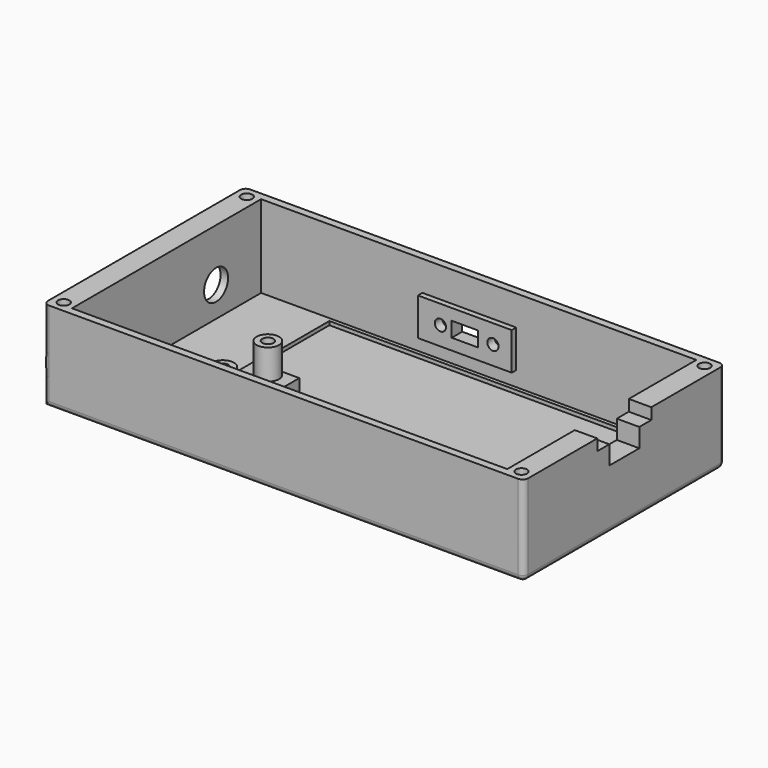
from build123d import *

# Parameters (mm, degrees)
BOX_W             = 128
BOX_H             = 67
BOX_DEPTH         = 24
BOX001_W          = 116
BOX001_H          = 63
BOX001_DEPTH      = 22
BOX002_W          = 4
BOX002_H          = 34
BOX002_DEPTH      = 10
BOX003_W          = 100
BOX003_H          = 30
BOX003_DEPTH      = 1
BOX004_W          = 12
BOX004_H          = 32
BOX004_DEPTH      = 4
CYLINDER_R        = 3
CYLINDER_DEPTH    = 8
CYLINDER001_R     = 3
CYLINDER001_DEPTH = 8
CYLINDER002_R     = 1.5
CYLINDER002_DEPTH = 5
CYLINDER003_R     = 1.5
CYLINDER003_DEPTH = 5
BOX005_W          = 42
BOX005_H          = 20
BOX005_DEPTH      = 4
CYLINDER004_R     = 4
CYLINDER004_DEPTH = 6
CYLINDER005_R     = 4
CYLINDER005_DEPTH = 6
CYLINDER006_R     = 10
CYLINDER006_DEPTH = 4
CYLINDER007_R     = 8
CYLINDER007_DEPTH = 4
BOX006_W          = 10
BOX006_H          = 25
BOX006_DEPTH      = 1.5
BOX007_W          = 4
BOX007_H          = 7
BOX007_DEPTH      = 6
CYLINDER008_R     = 1.5
CYLINDER008_DEPTH = 2.5
CYLINDER009_R     = 1.5
CYLINDER009_DEPTH = 2.5
CYLINDER010_R     = 1
CYLINDER010_DEPTH = 5
CYLINDER011_R     = 1
CYLINDER011_DEPTH = 5
BOX008_W          = 18
BOX008_H          = 3
BOX008_DEPTH      = 6
BOX009_W          = 10
BOX009_H          = 5
BOX009_DEPTH      = 6
CYLINDER012_R     = 1.5
CYLINDER012_DEPTH = 5
CYLINDER013_R     = 1.5
CYLINDER013_DEPTH = 5
CYLINDER014_R     = 1.5
CYLINDER014_DEPTH = 5
CYLINDER015_R     = 1.5
CYLINDER015_DEPTH = 5
FILLET_R          = 1.5
CYLINDER016_R     = 5
CYLINDER016_DEPTH = 0.2
CYLINDER017_R     = 7
CYLINDER017_DEPTH = 0.2
CYLINDER018_R     = 7
CYLINDER018_DEPTH = 0.2
BOX010_W          = 5
BOX010_H          = 6
BOX010_DEPTH      = 0.2
BOX011_W          = 9
BOX011_H          = 4
BOX011_DEPTH      = 0.2
CYLINDER019_R     = 7
CYLINDER019_DEPTH = 0.2
CYLINDER020_R     = 5
CYLINDER020_DEPTH = 0.2
PRISM_DEPTH       = 0.2
CYLINDER021_R     = 1.8
CYLINDER021_DEPTH = 0.2


with BuildPart() as part:
    # Box → Box (join)
    with BuildSketch(Plane.XY):
        with Locations((64, 33.5)):
            Rectangle(BOX_W, BOX_H)
    extrude(amount=BOX_DEPTH)

    # Box001 → Box001 (cut)
    with BuildSketch(Plane(origin=(6, 2, 2), x_dir=(1, 0, 0), z_dir=(0, 0, 1))):
        with Locations((58, 31.5)):
            Rectangle(BOX001_W, BOX001_H)
    extrude(amount=BOX001_DEPTH, mode=Mode.SUBTRACT)

    # Box002 → Box002 (cut)
    with BuildSketch(Plane(origin=(122, 31, 2), x_dir=(1, 0, 0), z_dir=(0, 0, 1))):
        with Locations((2, 17)):
            Rectangle(BOX002_W, BOX002_H)
    extrude(amount=BOX002_DEPTH, mode=Mode.SUBTRACT)

    # Box003 → Box003 (cut)
    with BuildSketch(Plane(origin=(25, 34, 1), x_dir=(1, 0, 0), z_dir=(0, 0, 1))):
        with Locations((50, 15)):
            Rectangle(BOX003_W, BOX003_H)
    extrude(amount=BOX003_DEPTH, mode=Mode.SUBTRACT)

    # Box004 → Box004 (join)
    with BuildSketch(Plane(origin=(29, 2, 2), x_dir=(1, 0, 0), z_dir=(0, 0, 1))):
        with Locations((6, 16)):
            Rectangle(BOX004_W, BOX004_H)
    extrude(amount=BOX004_DEPTH)

    # Cylinder → Cylinder (join)
    with BuildSketch(Plane(origin=(35, 16, 6), x_dir=(1, 0, 0), z_dir=(0, 0, 1))):
        Circle(CYLINDER_R)
    extrude(amount=CYLINDER_DEPTH)

    # Cylinder001 → Cylinder001 (join)
    with BuildSketch(Plane(origin=(35, 31, 6), x_dir=(1, 0, 0), z_dir=(0, 0, 1))):
        Circle(CYLINDER001_R)
    extrude(amount=CYLINDER001_DEPTH)

    # Cylinder002 → Cylinder002 (cut)
    with BuildSketch(Plane(origin=(35, 31, 9), x_dir=(1, 0, 0), z_dir=(0, 0, 1))):
        Circle(CYLINDER002_R)
    extrude(amount=CYLINDER002_DEPTH, mode=Mode.SUBTRACT)

    # Cylinder003 → Cylinder003 (cut)
    with BuildSketch(Plane(origin=(35, 16, 9), x_dir=(1, 0, 0), z_dir=(0, 0, 1))):
        Circle(CYLINDER003_R)
    extrude(amount=CYLINDER003_DEPTH, mode=Mode.SUBTRACT)

    # Box005 → Box005 (cut)
    with BuildSketch(Plane(origin=(4, 50, 0), x_dir=(0, -1, 0), z_dir=(-1, 0, 0))):
        with Locations((21, 10)):
            Rectangle(BOX005_W, BOX005_H)
    extrude(amount=BOX005_DEPTH, mode=Mode.SUBTRACT)

    # Cylinder004 → Cylinder004 (cut)
    with BuildSketch(Plane(origin=(6, 50, 10), x_dir=(0, -1, 0), z_dir=(-1, 0, 0))):
        Circle(CYLINDER004_R)
    extrude(amount=CYLINDER004_DEPTH, mode=Mode.SUBTRACT)

    # Cylinder005 → Cylinder005 (cut)
    with BuildSketch(Plane(origin=(6, 9, 10), x_dir=(0, -1, 0), z_dir=(-1, 0, 0))):
        Circle(CYLINDER005_R)
    extrude(amount=CYLINDER005_DEPTH, mode=Mode.SUBTRACT)

    # Cylinder006 → Cylinder006 (cut)
    with BuildSketch(Plane(origin=(4, 50, 10), x_dir=(0, -1, 0), z_dir=(-1, 0, 0))):
        Circle(CYLINDER006_R)
    extrude(amount=CYLINDER006_DEPTH, mode=Mode.SUBTRACT)

    # Cylinder007 → Cylinder007 (cut)
    with BuildSketch(Plane(origin=(4, 9, 10), x_dir=(0, -1, 0), z_dir=(-1, 0, 0))):
        Circle(CYLINDER007_R)
    extrude(amount=CYLINDER007_DEPTH, mode=Mode.SUBTRACT)

    # Box006 → Box006 (join)
    with BuildSketch(Plane(origin=(74, 65, 6), x_dir=(0, 0, 1), z_dir=(0, -1, 0))):
        with Locations((5, 12.5)):
            Rectangle(BOX006_W, BOX006_H)
    extrude(amount=BOX006_DEPTH)

    # Box007 → Box007 (cut)
    with BuildSketch(Plane(origin=(65, 67.5, 9), x_dir=(0, 0, 1), z_dir=(0, -1, 0))):
        with Locations((2, 3.5)):
            Rectangle(BOX007_W, BOX007_H)
    extrude(amount=BOX007_DEPTH, mode=Mode.SUBTRACT)

    # Cylinder008 → Cylinder008 (cut)
    with BuildSketch(Plane(origin=(69, 66, 11), x_dir=(0, 0, 1), z_dir=(0, -1, 0))):
        Circle(CYLINDER008_R)
    extrude(amount=CYLINDER008_DEPTH, mode=Mode.SUBTRACT)

    # Cylinder009 → Cylinder009 (cut)
    with BuildSketch(Plane(origin=(55, 66, 11), x_dir=(0, 0, 1), z_dir=(0, -1, 0))):
        Circle(CYLINDER009_R)
    extrude(amount=CYLINDER009_DEPTH, mode=Mode.SUBTRACT)

    # Cylinder010 → Cylinder010 (join)
    with BuildSketch(Plane(origin=(123, 36, 1), x_dir=(-1, 0, 0), z_dir=(0, 0, 1))):
        Circle(CYLINDER010_R)
    extrude(amount=CYLINDER010_DEPTH)

    # Cylinder011 → Cylinder011 (join)
    with BuildSketch(Plane(origin=(123, 62, 1), x_dir=(-1, 0, 0), z_dir=(0, 0, 1))):
        Circle(CYLINDER011_R)
    extrude(amount=CYLINDER011_DEPTH)

    # Box008 → Box008 (cut)
    with BuildSketch(Plane(origin=(122, 24.5, 21), x_dir=(0, 1, 0), z_dir=(1, 0, 0))):
        with Locations((9, 1.5)):
            Rectangle(BOX008_W, BOX008_H)
    extrude(amount=BOX008_DEPTH, mode=Mode.SUBTRACT)

    # Box009 → Box009 (cut)
    with BuildSketch(Plane(origin=(122, 28.5, 16), x_dir=(0, 1, 0), z_dir=(1, 0, 0))):
        with Locations((5, 2.5)):
            Rectangle(BOX009_W, BOX009_H)
    extrude(amount=BOX009_DEPTH, mode=Mode.SUBTRACT)

    # Cylinder012 → Cylinder012 (cut)
    with BuildSketch(Plane(origin=(3, 3, 19), x_dir=(0, -1, 0), z_dir=(0, 0, 1))):
        Circle(CYLINDER012_R)
    extrude(amount=CYLINDER012_DEPTH, mode=Mode.SUBTRACT)

    # Cylinder013 → Cylinder013 (cut)
    with BuildSketch(Plane(origin=(3, 64, 19), x_dir=(0, -1, 0), z_dir=(0, 0, 1))):
        Circle(CYLINDER013_R)
    extrude(amount=CYLINDER013_DEPTH, mode=Mode.SUBTRACT)

    # Cylinder014 → Cylinder014 (cut)
    with BuildSketch(Plane(origin=(125, 64, 19), x_dir=(0, -1, 0), z_dir=(0, 0, 1))):
        Circle(CYLINDER014_R)
    extrude(amount=CYLINDER014_DEPTH, mode=Mode.SUBTRACT)

    # Cylinder015 → Cylinder015 (cut)
    with BuildSketch(Plane(origin=(125, 3, 19), x_dir=(0, -1, 0), z_dir=(0, 0, 1))):
        Circle(CYLINDER015_R)
    extrude(amount=CYLINDER015_DEPTH, mode=Mode.SUBTRACT)

    # Fillet
    fillet_edges = [part.edges().sort_by_distance(p)[0] for p in [
        (128, 0, 12),
        (128, 33.5, 0),
        (128, 67, 12),
        (64, 67, 0),
        (64, 0, 0),
        (0, 67, 12),
        (0, 0, 12),
    ]]
    fillet(fillet_edges, radius=FILLET_R)

    # Cylinder016 → Cylinder016 (cut)
    with BuildSketch(Plane(origin=(68, 24, 1.8), x_dir=(0, -1, 0), z_dir=(0, 0, 1))):
        Circle(CYLINDER016_R)
    extrude(amount=CYLINDER016_DEPTH, mode=Mode.SUBTRACT)

    # Cylinder017 → Cylinder017 (cut)
    with BuildSketch(Plane(origin=(70, 14, 1.8), x_dir=(0, -1, 0), z_dir=(0, 0, 1))):
        Circle(CYLINDER017_R)
    extrude(amount=CYLINDER017_DEPTH, mode=Mode.SUBTRACT)

    # Cylinder018 → Cylinder018 (cut)
    with BuildSketch(Plane(origin=(74, 14, 1.8), x_dir=(0, -1, 0), z_dir=(0, 0, 1))):
        Circle(CYLINDER018_R)
    extrude(amount=CYLINDER018_DEPTH, mode=Mode.SUBTRACT)

    # Box010 → Box010 (cut)
    with BuildSketch(Plane(origin=(69, 12, 1.8), x_dir=(0, -1, 0), z_dir=(0, 0, 1))):
        with Locations((2.5, 3)):
            Rectangle(BOX010_W, BOX010_H)
    extrude(amount=BOX010_DEPTH, mode=Mode.SUBTRACT)

    # Box011 → Box011 (cut)
    with BuildSketch(Plane(origin=(76.1, 22, 1.8), x_dir=(0.104528, -0.994522, 0), z_dir=(0, 0, 1))):
        with Locations((4.5, 2)):
            Rectangle(BOX011_W, BOX011_H)
    extrude(amount=BOX011_DEPTH, mode=Mode.SUBTRACT)

    # Cylinder019 → Cylinder019 (join)
    with BuildSketch(Plane(origin=(74.791893, 24.879037, 1.8), x_dir=(0.104528, -0.994522, 0), z_dir=(0, 0, 1))):
        Circle(CYLINDER019_R)
    extrude(amount=CYLINDER019_DEPTH)

    # Cylinder020 → Cylinder020 (cut)
    with BuildSketch(Plane(origin=(67.830239, 24.147338, 1.8), x_dir=(0.104528, -0.994522, 0), z_dir=(0, 0, 1))):
        Circle(CYLINDER020_R)
    extrude(amount=CYLINDER020_DEPTH, mode=Mode.SUBTRACT)

    # Prism → Prism (cut)
    with BuildSketch(Plane(origin=(62.360369, 23.572431, 1.8), x_dir=(0.5, -0.866025, 0), z_dir=(0, 0, 1))):
        Polygon((2.5, 0), (-1.25, 2.165064), (-1.25, -2.165064), align=None)
    extrude(amount=PRISM_DEPTH, mode=Mode.SUBTRACT)

    # Cylinder021 → Cylinder021 (join)
    with BuildSketch(Plane(origin=(61.187164, 25.204482, 1.8), x_dir=(0.5, -0.866025, 0), z_dir=(0, 0, 1))):
        Circle(CYLINDER021_R)
    extrude(amount=CYLINDER021_DEPTH)


solid = part.part
